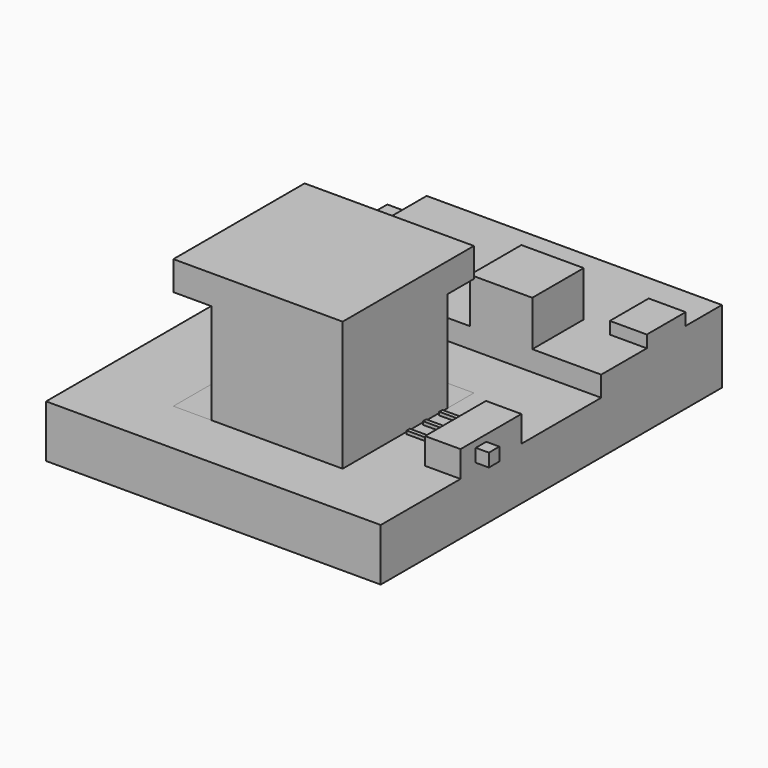
from build123d import *

# Parameters (mm, degrees)
F0_W      = 20
F0_H      = 20
F0_W_2    = 9.5
F0_H_2    = 9.8
F0_W_3    = 5.63
F0_H_3    = 7.4
F0_W_4    = 4.7
F0_H_4    = 0.6
F1_DEPTH  = 8
F2_DEPTH  = 11.1
F3_DEPTH  = 12.95
F4_DEPTH  = 18
F5_DEPTH  = 23.3
F6_DEPTH  = 27.73
F7_DEPTH  = 23.3
F8_DEPTH  = 8
F9_DEPTH  = 12
F10_DEPTH = 10.25
F11_DEPTH = 9.75
F12_DEPTH = 8
F0_W_5    = 2
F0_H_5    = 2
F13_DEPTH = 11
F14_DEPTH = 9


with BuildPart() as f1:
    # F0 (on Top) → F1 (new body)
    with BuildSketch(Plane.XY):
        Polygon((-25.000166, 10.759449), (-31.000166, 10.759449), (-31.000166, -54.240551), (19.999834, -54.240551), (19.999834, -39.040551), (14.599834, -39.040551), (14.599834, -36.671682), (9.899834, -36.671682), (9.899834, -36.071682), (14.599834, -36.071682), (14.599834, -33.571682), (9.899834, -33.571682), (9.899834, -32.971682), (14.599834, -32.971682), (14.599834, -30.457526), (9.899834, -30.471682), (9.898027, -29.871685), (14.599834, -29.857523), (14.599834, -27.440551), (19.999834, -27.440551), (19.999834, -12.240551), (9.5, -12.240551), (0, -12.240551), (-25.000166, -12.240551), align=None)
        Polygon((-12.6, -45.740551), (-18.4, -45.740551), (-18.4, -20.740551), (7.4, -20.740551), (7.4, -25.740551), (7.4, -45.740551), align=None, mode=Mode.SUBTRACT)
        with Locations((-2.6, -35.740551)):
            Rectangle(F0_W, F0_H)
        Polygon((-18.4, -20.740551), (-18.4, -45.740551), (-12.6, -45.740551), (-12.6, -25.740551), (7.4, -25.740551), (7.4, -20.740551), align=None)
        Polygon((19.999834, 10.759449), (-25.000166, 10.759449), (-25.000166, -12.240551), (0, -12.240551), (0, -2.440551), (9.5, -2.440551), (9.5, -12.240551), (19.999834, -12.240551), (19.999834, -3.548992), (14.369834, -3.548992), (14.369834, 3.851008), (19.999834, 3.851008), align=None)
        with Locations((4.75, -7.340551)):
            Rectangle(F0_W_2, F0_H_2)
        with Locations((17.184834, 0.151008)):
            Rectangle(F0_W_3, F0_H_3)
        Polygon((14.599834, -39.040551), (19.999834, -39.040551), (19.999834, -36.140551), (19.999834, -34.140551), (19.999834, -27.440551), (14.599834, -27.440551), (14.599834, -29.857523), (14.599834, -30.457526), (14.599834, -32.971682), (14.599834, -33.571682), (14.599834, -36.071682), (14.599834, -36.671682), align=None)
        with Locations((12.249834, -36.371682)):
            Rectangle(F0_W_4, F0_H_4)
        with Locations((12.249834, -33.271682)):
            Rectangle(F0_W_4, F0_H_4)
        Polygon((14.599834, -30.457526), (14.599834, -29.857523), (9.898027, -29.871685), (9.899834, -30.471682), align=None)
    extrude(amount=F1_DEPTH)

    # F0 (on Top) → F2 (join)
    with BuildSketch(Plane.XY):
        Polygon((19.999834, 10.759449), (-25.000166, 10.759449), (-25.000166, -12.240551), (0, -12.240551), (0, -2.440551), (9.5, -2.440551), (9.5, -12.240551), (19.999834, -12.240551), (19.999834, -3.548992), (14.369834, -3.548992), (14.369834, 3.851008), (19.999834, 3.851008), align=None)
        with Locations((4.75, -7.340551)):
            Rectangle(F0_W_2, F0_H_2)
        with Locations((17.184834, 0.151008)):
            Rectangle(F0_W_3, F0_H_3)
    extrude(amount=F2_DEPTH)

    # F0 (on Top) → F3 (join)
    with BuildSketch(Plane.XY):
        with Locations((17.184834, 0.151008)):
            Rectangle(F0_W_3, F0_H_3)
    extrude(amount=F3_DEPTH)

    # F0 (on Top) → F4 (join)
    with BuildSketch(Plane.XY):
        with Locations((4.75, -7.340551)):
            Rectangle(F0_W_2, F0_H_2)
    extrude(amount=F4_DEPTH)

    # F0 (on Top) → F5 (join)
    with BuildSketch(Plane.XY):
        with Locations((-2.6, -35.740551)):
            Rectangle(F0_W, F0_H)
    extrude(amount=F5_DEPTH)

    # F0 (on Top) → F6 (join)
    with BuildSketch(Plane.XY):
        with Locations((-2.6, -35.740551)):
            Rectangle(F0_W, F0_H)
        Polygon((-18.4, -20.740551), (-18.4, -45.740551), (-12.6, -45.740551), (-12.6, -25.740551), (7.4, -25.740551), (7.4, -20.740551), align=None)
    extrude(amount=F6_DEPTH)

    # F0 (on Top) → F7 (cut)
    with BuildSketch(Plane.XY):
        Polygon((-18.4, -20.740551), (-18.4, -45.740551), (-12.6, -45.740551), (-12.6, -25.740551), (7.4, -25.740551), (7.4, -20.740551), align=None)
    extrude(amount=F7_DEPTH, mode=Mode.SUBTRACT)

    # F0 (on Top) → F9 (join)
    with BuildSketch(Plane.XY):
        Polygon((14.599834, -39.040551), (19.999834, -39.040551), (19.999834, -36.140551), (19.999834, -34.140551), (19.999834, -27.440551), (14.599834, -27.440551), (14.599834, -29.857523), (14.599834, -30.457526), (14.599834, -32.971682), (14.599834, -33.571682), (14.599834, -36.071682), (14.599834, -36.671682), align=None)
    extrude(amount=F9_DEPTH)

    # F0 (on Top) → F10 (join)
    with BuildSketch(Plane.XY):
        Polygon((14.599834, -30.457526), (14.599834, -29.857523), (9.898027, -29.871685), (9.899834, -30.471682), align=None)
        with Locations((12.249834, -33.271682)):
            Rectangle(F0_W_4, F0_H_4)
        with Locations((12.249834, -36.371682)):
            Rectangle(F0_W_4, F0_H_4)
    extrude(amount=F10_DEPTH)

    # F0 (on Top) → F11 (cut)
    with BuildSketch(Plane.XY):
        Polygon((14.599834, -30.457526), (14.599834, -29.857523), (9.898027, -29.871685), (9.899834, -30.471682), align=None)
        with Locations((12.249834, -33.271682)):
            Rectangle(F0_W_4, F0_H_4)
        with Locations((12.249834, -36.371682)):
            Rectangle(F0_W_4, F0_H_4)
    extrude(amount=F11_DEPTH, mode=Mode.SUBTRACT)

    # F0 (on Top) → F12 (join)
    with BuildSketch(Plane.XY):
        with Locations((12.249834, -36.371682)):
            Rectangle(F0_W_4, F0_H_4)
        with Locations((12.249834, -33.271682)):
            Rectangle(F0_W_4, F0_H_4)
        Polygon((14.599834, -30.457526), (14.599834, -29.857523), (9.898027, -29.871685), (9.899834, -30.471682), align=None)
    extrude(amount=F12_DEPTH)

    # F0 (on Top) → F13 (join)
    with BuildSketch(Plane.XY):
        with Locations((20.999834, -35.140551)):
            Rectangle(F0_W_5, F0_H_5)
    extrude(amount=F13_DEPTH)

    # F0 (on Top) → F14 (cut)
    with BuildSketch(Plane.XY):
        with Locations((20.999834, -35.140551)):
            Rectangle(F0_W_5, F0_H_5)
    extrude(amount=F14_DEPTH, mode=Mode.SUBTRACT)


with BuildPart() as f8:
    # F0 (on Top) → F8 (new body)
    with BuildSketch(Plane.XY):
        Polygon((-18.4, -20.740551), (-18.4, -45.740551), (-12.6, -45.740551), (-12.6, -25.740551), (7.4, -25.740551), (7.4, -20.740551), align=None)
    extrude(amount=F8_DEPTH)


solid = Compound([f1.part, f8.part])
